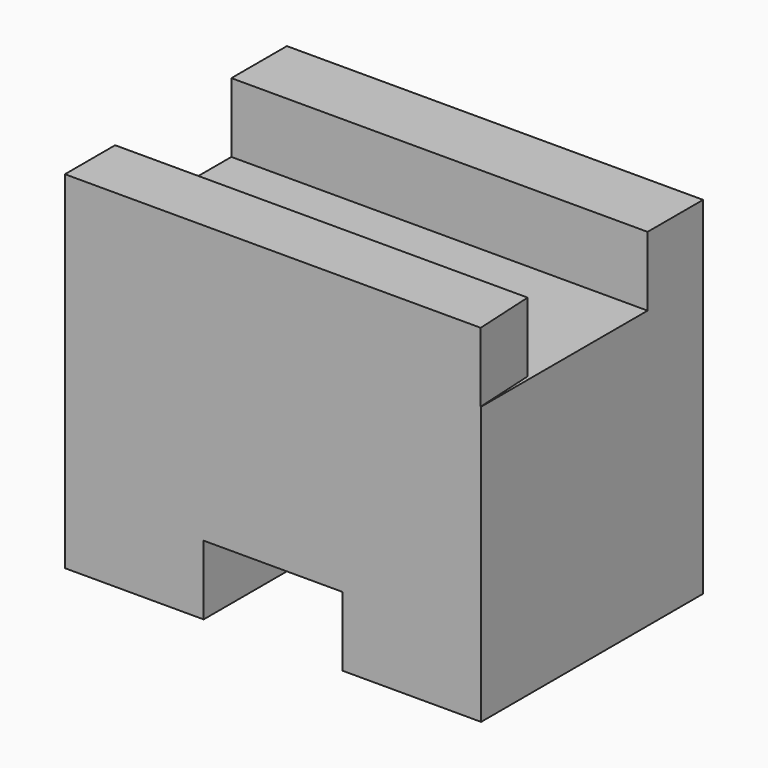
from build123d import *

# Parameters (mm, degrees)
F1_DEPTH = 25.4
F3_W     = 38.1
F3_H     = 6.35
F4_DEPTH = 6.35
F6_DEPTH = 6.35


with BuildPart() as f1:
    # F0 (on Front) → F1 (new body)
    with BuildSketch(Plane.XZ):
        Polygon((38.1, 25.4), (0, 25.4), (0, 0), (12.7, 0), (12.7, 6.35), (25.4, 6.35), (25.4, 0), (38.1, 0), align=None)
    extrude(amount=F1_DEPTH)

    # F3 (on face) → F4 (join)
    with BuildSketch(Plane.XY.offset(25.4)):
        with Locations((19.05, -3.175)):
            Rectangle(F3_W, F3_H)
    extrude(amount=F4_DEPTH)

    # F5 (on face) → F6 (join)
    with BuildSketch(Plane.XY.offset(25.4)):
        Polygon((37.7610102296, -19.6542944759), (0, -19.6542944759), (0, -25.4), (38.063415113, -25.4), align=None)
    extrude(amount=F6_DEPTH)


solid = f1.part
